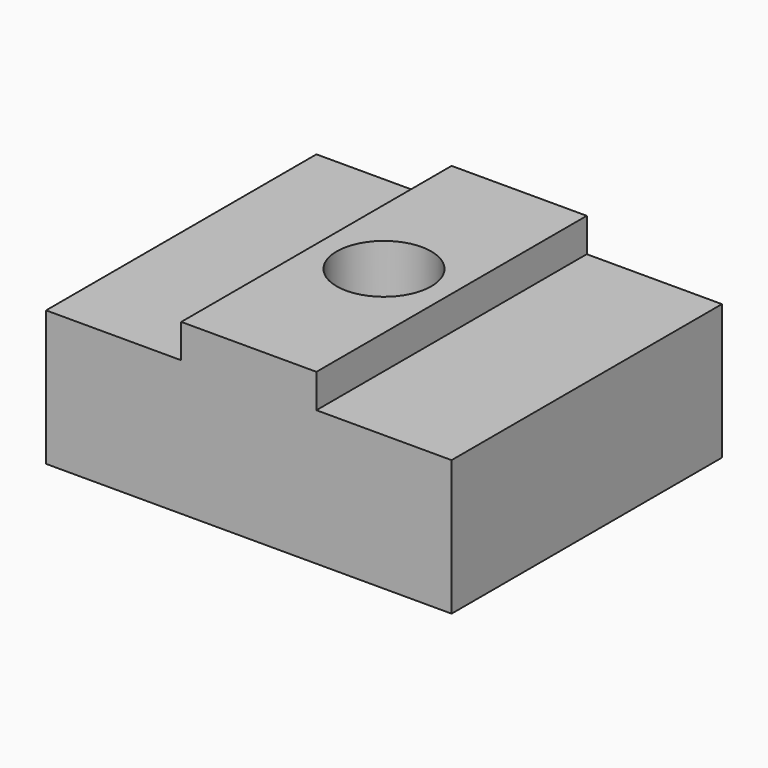
from build123d import *

# Parameters (mm, degrees)
F1_DEPTH = 635
F3_D     = 177.8


with BuildPart() as f1:
    # F0 (on Front) → F1 (new body)
    with BuildSketch(Plane.XZ):
        Polygon((0, 254), (0, 0), (762, 0), (762, 254), (508, 254), (508, 317.5), (254, 317.5), (254, 254), align=None)
    extrude(amount=-F1_DEPTH)

    # F3 (through all)
    with Locations(Plane.XY.offset(317.5)):
        with Locations((381, 317.5)):
            Hole(F3_D / 2)


solid = f1.part
